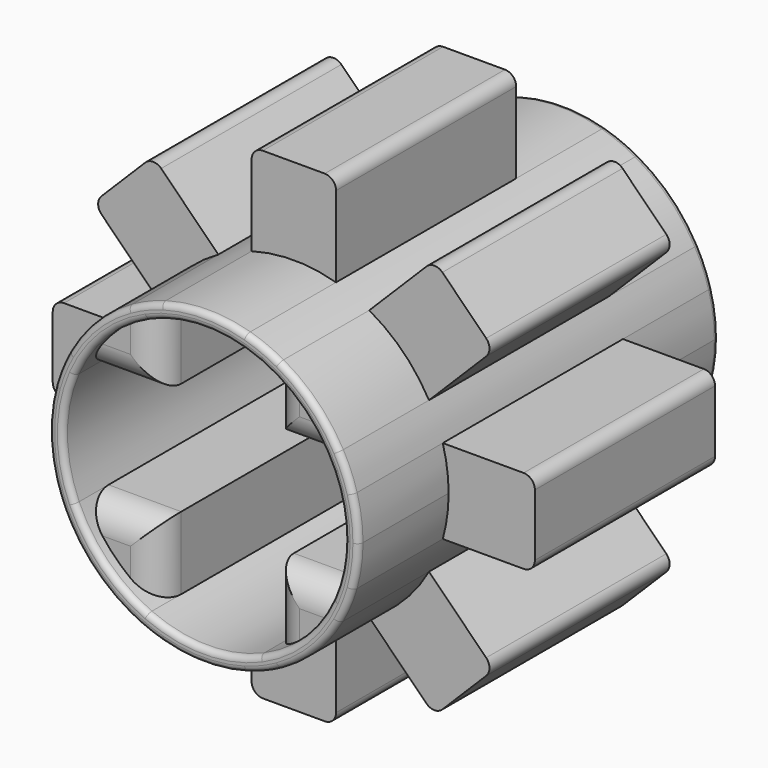
from build123d import *

# Parameters (mm, degrees)
F1_DEPTH = 4
F2_DEPTH = 2
F3_R     = 0.1
F4_DEPTH = 3.75
F5_R     = 0.5


with BuildPart() as f1:
    # F0 (on Front) → F1 (new body, symmetric)
    with BuildSketch(Plane.XZ):
        with BuildLine():
            ThreePointArc((2.645751, -0.75), (2.723813, -0.378605), (2.75, 0))
            ThreePointArc((2.75, 0), (2.723813, 0.378605), (2.645751, 0.75))
            ThreePointArc((2.645751, 0.75), (2.540669, 1.052379), (2.401159, 1.340499))
            ThreePointArc((2.401159, 1.340499), (1.944544, 1.944544), (1.340499, 2.401159))
            ThreePointArc((1.340499, 2.401159), (1.052379, 2.540669), (0.75, 2.645751))
            ThreePointArc((0.75, 2.645751), (0, 2.75), (-0.75, 2.645751))
            ThreePointArc((-0.75, 2.645751), (-1.052379, 2.540669), (-1.340499, 2.401159))
            ThreePointArc((-1.340499, 2.401159), (-1.944544, 1.944544), (-2.401159, 1.340499))
            ThreePointArc((-2.401159, 1.340499), (-2.540669, 1.052379), (-2.645751, 0.75))
            ThreePointArc((-2.645751, 0.75), (-2.75, 0), (-2.645751, -0.75))
            ThreePointArc((-2.645751, -0.75), (-2.540669, -1.052379), (-2.401159, -1.340499))
            ThreePointArc((-2.401159, -1.340499), (-1.944544, -1.944544), (-1.340499, -2.401159))
            ThreePointArc((-1.340499, -2.401159), (-1.052379, -2.540669), (-0.75, -2.645751))
            ThreePointArc((-0.75, -2.645751), (0, -2.75), (0.75, -2.645751))
            ThreePointArc((0.75, -2.645751), (1.052379, -2.540669), (1.340499, -2.401159))
            ThreePointArc((1.340499, -2.401159), (1.944544, -1.944544), (2.401159, -1.340499))
            ThreePointArc((2.401159, -1.340499), (2.540669, -1.052379), (2.645751, -0.75))
        make_face()
        with BuildLine():
            ThreePointArc((2.291288, 1), (2.447266, 0.510774), (2.5, 0))
            ThreePointArc((2.5, 0), (2.447266, -0.510774), (2.291288, -1))
            ThreePointArc((2.291288, -1), (1.767767, -1.767767), (1, -2.291288))
            ThreePointArc((1, -2.291288), (0, -2.5), (-1, -2.291288))
            ThreePointArc((-1, -2.291288), (-1.767767, -1.767767), (-2.291288, -1))
            ThreePointArc((-2.291288, -1), (-2.5, 0), (-2.291288, 1))
            ThreePointArc((-2.291288, 1), (-1.767767, 1.767767), (-1, 2.291288))
            ThreePointArc((-1, 2.291288), (0, 2.5), (1, 2.291288))
            ThreePointArc((1, 2.291288), (1.767767, 1.767767), (2.291288, 1))
        make_face(mode=Mode.SUBTRACT)
    extrude(amount=F1_DEPTH, both=True)

    # F0 (on Front) → F2 (join, symmetric)
    with BuildSketch(Plane.XZ):
        with BuildLine():
            ThreePointArc((-0.75, 2.645751), (0, 2.75), (0.75, 2.645751))
            Line((0.75, 2.645751), (0.75, 4.081929))
            ThreePointArc((0.75, 4.081929), (0.691421, 4.22335), (0.55, 4.281929))
            Line((0.55, 4.281929), (0, 4.281929))
            Line((0, 4.281929), (-0.55, 4.281929))
            ThreePointArc((-0.55, 4.281929), (-0.691421, 4.22335), (-0.75, 4.081929))
            Line((-0.75, 4.081929), (-0.75, 2.645751))
        make_face()
        with BuildLine():
            ThreePointArc((1.340499, 2.401159), (1.944544, 1.944544), (2.401159, 1.340499))
            Line((2.401159, 1.340499), (3.41669, 2.356029))
            ThreePointArc((3.41669, 2.356029), (3.475268, 2.497451), (3.41669, 2.638872))
            Line((3.41669, 2.638872), (3.027781, 3.027781))
            Line((3.027781, 3.027781), (2.638872, 3.41669))
            ThreePointArc((2.638872, 3.41669), (2.497451, 3.475268), (2.356029, 3.41669))
            Line((2.356029, 3.41669), (1.340499, 2.401159))
        make_face()
        with BuildLine():
            ThreePointArc((2.645751, 0.75), (2.723813, 0.378605), (2.75, 0))
            ThreePointArc((2.75, 0), (2.723813, -0.378605), (2.645751, -0.75))
            Line((2.645751, -0.75), (4.081929, -0.75))
            ThreePointArc((4.081929, -0.75), (4.22335, -0.691421), (4.281929, -0.55))
            Line((4.281929, -0.55), (4.281929, 0))
            Line((4.281929, 0), (4.281929, 0.55))
            ThreePointArc((4.281929, 0.55), (4.22335, 0.691421), (4.081929, 0.75))
            Line((4.081929, 0.75), (2.645751, 0.75))
        make_face()
        with BuildLine():
            Line((3.41669, -2.356029), (2.401159, -1.340499))
            ThreePointArc((2.401159, -1.340499), (1.944544, -1.944544), (1.340499, -2.401159))
            Line((1.340499, -2.401159), (2.356029, -3.41669))
            ThreePointArc((2.356029, -3.41669), (2.497451, -3.475268), (2.638872, -3.41669))
            Line((2.638872, -3.41669), (3.027781, -3.027781))
            Line((3.027781, -3.027781), (3.41669, -2.638872))
            ThreePointArc((3.41669, -2.638872), (3.475268, -2.497451), (3.41669, -2.356029))
        make_face()
        with BuildLine():
            Line((0.75, -4.081929), (0.75, -2.645751))
            ThreePointArc((0.75, -2.645751), (0, -2.75), (-0.75, -2.645751))
            Line((-0.75, -2.645751), (-0.75, -4.081929))
            ThreePointArc((-0.75, -4.081929), (-0.691421, -4.22335), (-0.55, -4.281929))
            Line((-0.55, -4.281929), (0, -4.281929))
            Line((0, -4.281929), (0.55, -4.281929))
            ThreePointArc((0.55, -4.281929), (0.691421, -4.22335), (0.75, -4.081929))
        make_face()
        with BuildLine():
            Line((-2.356029, -3.41669), (-1.340499, -2.401159))
            ThreePointArc((-1.340499, -2.401159), (-1.944544, -1.944544), (-2.401159, -1.340499))
            Line((-2.401159, -1.340499), (-3.41669, -2.356029))
            ThreePointArc((-3.41669, -2.356029), (-3.475268, -2.497451), (-3.41669, -2.638872))
            Line((-3.41669, -2.638872), (-3.027781, -3.027781))
            Line((-3.027781, -3.027781), (-2.638872, -3.41669))
            ThreePointArc((-2.638872, -3.41669), (-2.497451, -3.475268), (-2.356029, -3.41669))
        make_face()
        with BuildLine():
            ThreePointArc((-2.645751, -0.75), (-2.75, 0), (-2.645751, 0.75))
            Line((-2.645751, 0.75), (-4.081929, 0.75))
            ThreePointArc((-4.081929, 0.75), (-4.22335, 0.691421), (-4.281929, 0.55))
            Line((-4.281929, 0.55), (-4.281929, 0))
            Line((-4.281929, 0), (-4.281929, -0.55))
            ThreePointArc((-4.281929, -0.55), (-4.22335, -0.691421), (-4.081929, -0.75))
            Line((-4.081929, -0.75), (-2.645751, -0.75))
        make_face()
        with BuildLine():
            ThreePointArc((-2.401159, 1.340499), (-1.944544, 1.944544), (-1.340499, 2.401159))
            Line((-1.340499, 2.401159), (-2.356029, 3.41669))
            ThreePointArc((-2.356029, 3.41669), (-2.497451, 3.475268), (-2.638872, 3.41669))
            Line((-2.638872, 3.41669), (-3.027781, 3.027781))
            Line((-3.027781, 3.027781), (-3.41669, 2.638872))
            ThreePointArc((-3.41669, 2.638872), (-3.475268, 2.497451), (-3.41669, 2.356029))
            Line((-3.41669, 2.356029), (-2.401159, 1.340499))
        make_face()
    extrude(amount=F2_DEPTH, both=True)

    # F3
    f3_edges = [f1.edges().sort_by_distance(p)[0] for p in [
        (-2.75, -4, 0),
        (-2.5, -4, 0),
        (-2.75, 4, 0),
        (-2.5, 4, 0),
    ]]
    fillet(f3_edges, radius=F3_R)

    # F0 (on Front) → F4 (join, symmetric)
    with BuildSketch(Plane.XZ):
        with BuildLine():
            Line((-1, 1), (-1, 2.291288))
            ThreePointArc((-1, 2.291288), (-1.767767, 1.767767), (-2.291288, 1))
            Line((-2.291288, 1), (-1, 1))
        make_face()
        with BuildLine():
            Line((1, 1), (2.291288, 1))
            ThreePointArc((2.291288, 1), (1.767767, 1.767767), (1, 2.291288))
            Line((1, 2.291288), (1, 1))
        make_face()
        with BuildLine():
            ThreePointArc((1, -2.291288), (1.767767, -1.767767), (2.291288, -1))
            Line((2.291288, -1), (1, -1))
            Line((1, -1), (1, -2.291288))
        make_face()
        with BuildLine():
            ThreePointArc((-2.291288, -1), (-1.767767, -1.767767), (-1, -2.291288))
            Line((-1, -2.291288), (-1, -1))
            Line((-1, -1), (-2.291288, -1))
        make_face()
    extrude(amount=F4_DEPTH, both=True)

    # F5
    f5_edges = [f1.edges().sort_by_distance(p)[0] for p in [
        (-1, -3.75, 1.645644),
        (-1.645644, -3.75, 1),
        (-1.645644, -3.75, -1),
        (-1, -3.75, -1.645644),
        (1, -3.75, 1.645644),
        (1.645644, -3.75, 1),
        (1.645644, -3.75, -1),
        (1, -3.75, -1.645644),
        (1.645644, 3.75, 1),
        (1, 3.75, 1.645644),
        (-1, 3.75, 1.645644),
        (-1.645644, 3.75, 1),
        (-1.645644, 3.75, -1),
        (-1, 3.75, -1.645644),
        (1, 3.75, -1.645644),
        (1.645644, 3.75, -1),
    ]]
    fillet(f5_edges, radius=F5_R)


solid = f1.part
